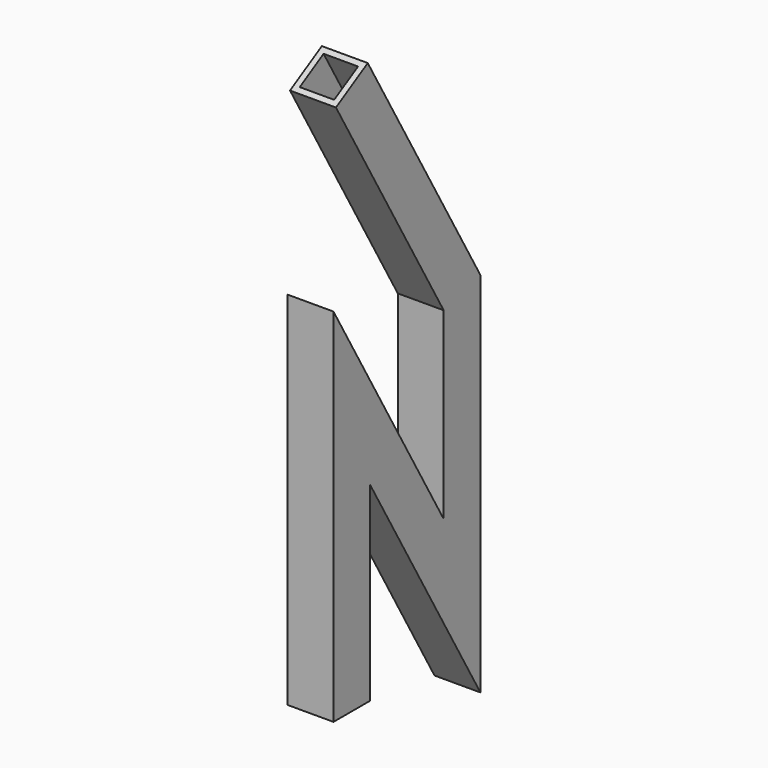
from build123d import *

# Parameters (mm, degrees)
F0_W   = 25.4
F0_H   = 25.4
F0_W_2 = 19.05
F0_H_2 = 19.05


with BuildPart() as f2:
    # F2: sweep along a path in F1
    with BuildLine(Plane.YZ) as f2_path:
        Line((0, 0), (0, 152.4))
        Line((0, 152.4), (76.2, 20.4177284633))
        Line((76.2, 20.4177284633), (76.2, 172.8177284633))
        Line((76.2, 172.8177284633), (0, 304.8))
    # F0 (on Top) → F2 (sweep)
    with BuildSketch(Plane.XY):
        Rectangle(F0_W, F0_H)
        Rectangle(F0_W_2, F0_H_2, mode=Mode.SUBTRACT)
    sweep(path=f2_path.line, transition=Transition.RIGHT)


solid = f2.part
